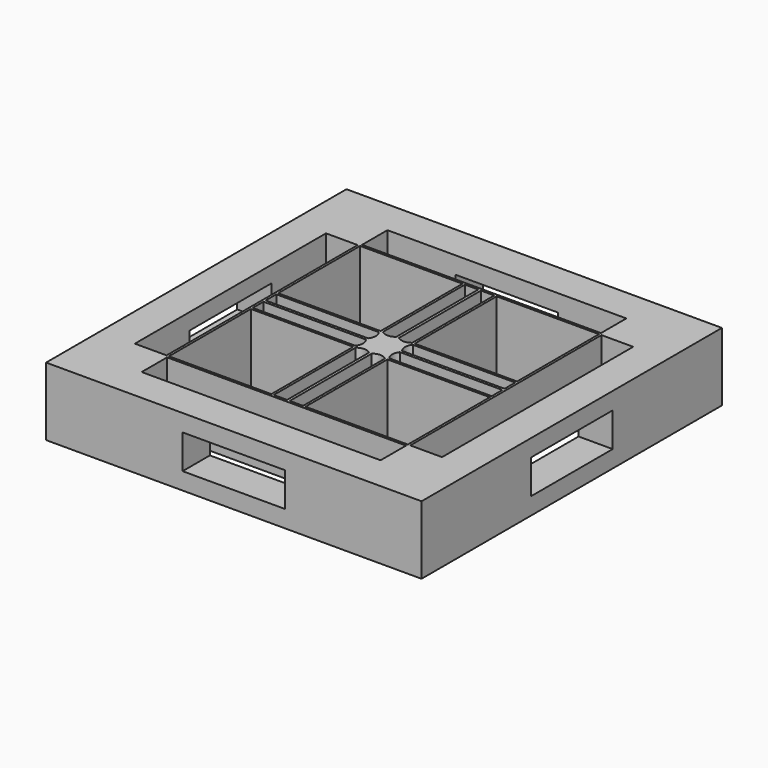
from build123d import *

# Parameters (mm, degrees)
F0_W      = 55
F0_H      = 55
F2_DEPTH  = 10
F1_W      = 35
F1_H      = 4
F1_W_2    = 4
F1_H_2    = 35
F1_W_3    = 15
F1_H_3    = 15
F3_DEPTH  = 25
F4_W      = 1.95
F4_H      = 15
F5_DEPTH  = 25
F6_W      = 1.95
F6_H      = 15
F7_DEPTH  = 25
F8_W      = 15
F8_H      = 1.95
F8_W_2    = 1.95
F8_H_2    = 15
F9_DEPTH  = 25
F10_W     = 35
F10_H     = 4.65
F10_W_2   = 4.65
F10_H_2   = 35
F11_DEPTH = 25
F13_DEPTH = 25
F14_W     = 15.000002
F14_H     = 5
F15_DEPTH = 6
F16_W     = 15
F16_H     = 5
F17_DEPTH = 6
F18_W     = 15
F18_H     = 5
F19_DEPTH = 6
F20_W     = 15
F20_H     = 5
F21_DEPTH = 6


with BuildPart() as f2:
    # F0 (on Top) → F2 (new body)
    with BuildSketch(Plane.XY):
        with Locations((-46.218942, 9.861976)):
            Rectangle(F0_W, F0_H)
    extrude(amount=F2_DEPTH)

    # F1 (on face) → F3 (cut)
    with BuildSketch(Plane.XY):
        with Locations((-46.218942, 30.361976)):
            Rectangle(F1_W, F1_H)
        with Locations((-66.718942, 9.861976)):
            Rectangle(F1_W_2, F1_H_2)
        with Locations((-25.718942, 9.861976)):
            Rectangle(F1_W_2, F1_H_2)
        with Locations((-46.218942, -10.638024)):
            Rectangle(F1_W, F1_H)
        with Locations((-56.218942, 19.861976)):
            Rectangle(F1_W_3, F1_H_3)
        with Locations((-36.218942, 19.861976)):
            Rectangle(F1_W_3, F1_H_3)
        with Locations((-56.218942, -0.138024)):
            Rectangle(F1_W_3, F1_H_3)
        with Locations((-36.218942, -0.138024)):
            Rectangle(F1_W_3, F1_H_3)
    extrude(amount=F3_DEPTH, mode=Mode.SUBTRACT)

    # F4 (on face) → F5 (cut)
    with BuildSketch(Plane.XY.offset(10)):
        with Locations((-47.393942, 19.861976)):
            Rectangle(F4_W, F4_H)
    extrude(amount=-F5_DEPTH, mode=Mode.SUBTRACT)

    # F6 (on face) → F7 (cut)
    with BuildSketch(Plane.XY.offset(10)):
        with Locations((-45.043942, 19.861976)):
            Rectangle(F6_W, F6_H)
    extrude(amount=-F7_DEPTH, mode=Mode.SUBTRACT)

    # F8 (on face) → F9 (cut)
    with BuildSketch(Plane.XY.offset(10)):
        with Locations((-56.218942, 11.036976)):
            Rectangle(F8_W, F8_H)
        with Locations((-56.218942, 8.686976)):
            Rectangle(F8_W, F8_H)
        with Locations((-36.218942, 11.036976)):
            Rectangle(F8_W, F8_H)
        with Locations((-36.218942, 8.686976)):
            Rectangle(F8_W, F8_H)
        with Locations((-47.393942, -0.138024)):
            Rectangle(F8_W_2, F8_H_2)
        with Locations((-45.043942, -0.138024)):
            Rectangle(F8_W_2, F8_H_2)
    extrude(amount=-F9_DEPTH, mode=Mode.SUBTRACT)

    # F10 (on face) → F11 (cut)
    with BuildSketch(Plane.XY.offset(10)):
        with Locations((-46.218942, 30.036976)):
            Rectangle(F10_W, F10_H)
        with Locations((-26.043942, 9.861976)):
            Rectangle(F10_W_2, F10_H_2)
        with Locations((-46.218942, -10.313024)):
            Rectangle(F10_W, F10_H)
        with Locations((-66.393942, 9.861976)):
            Rectangle(F10_W_2, F10_H_2)
    extrude(amount=-F11_DEPTH, mode=Mode.SUBTRACT)

    # F12 (on face) → F13 (cut)
    with BuildSketch(Plane.XY.offset(10)):
        with BuildLine():
            Line((-46.418942, 12.361976), (-48.368942, 12.361976))
            ThreePointArc((-48.368942, 12.361976), (-47.393942, 12.001878), (-46.418942, 12.361976))
        make_face()
        with BuildLine():
            Line((-44.068942, 12.361976), (-46.018942, 12.361976))
            ThreePointArc((-46.018942, 12.361976), (-45.043942, 12.001878), (-44.068942, 12.361976))
        make_face()
        with BuildLine():
            Line((-43.718942, 10.061976), (-43.718942, 12.011976))
            ThreePointArc((-43.718942, 12.011976), (-44.079041, 11.036976), (-43.718942, 10.061976))
        make_face()
        with BuildLine():
            Line((-43.718942, 7.711976), (-43.718942, 9.661976))
            ThreePointArc((-43.718942, 9.661976), (-44.079041, 8.686976), (-43.718942, 7.711976))
        make_face()
        with BuildLine():
            Line((-46.018942, 7.361976), (-44.068942, 7.361976))
            ThreePointArc((-44.068942, 7.361976), (-45.043942, 7.722075), (-46.018942, 7.361976))
        make_face()
        with BuildLine():
            Line((-48.368942, 7.361976), (-46.418942, 7.361976))
            ThreePointArc((-46.418942, 7.361976), (-47.393942, 7.722075), (-48.368942, 7.361976))
        make_face()
        with BuildLine():
            Line((-48.718942, 9.661976), (-48.718942, 7.711976))
            ThreePointArc((-48.718942, 7.711976), (-48.358843, 8.686976), (-48.718942, 9.661976))
        make_face()
        with BuildLine():
            Line((-48.718942, 12.011976), (-48.718942, 10.061976))
            ThreePointArc((-48.718942, 10.061976), (-48.358843, 11.036976), (-48.718942, 12.011976))
        make_face()
    extrude(amount=-F13_DEPTH, mode=Mode.SUBTRACT)

    # F14 (on face) → F15 (cut)
    with BuildSketch(Plane.XZ.offset(17.638024)):
        with Locations((-46.218943, 5)):
            Rectangle(F14_W, F14_H)
    extrude(amount=-F15_DEPTH, mode=Mode.SUBTRACT)

    # F16 (on face) → F17 (cut)
    with BuildSketch(Plane.YZ.offset(-18.718942)):
        with Locations((9.861976, 5)):
            Rectangle(F16_W, F16_H)
    extrude(amount=-F17_DEPTH, mode=Mode.SUBTRACT)

    # F18 (on face) → F19 (cut)
    with BuildSketch(Plane(origin=(0, 37.361976, 0), x_dir=(-1, 0, 0), z_dir=(0, 1, 0))):
        with Locations((46.218942, 5)):
            Rectangle(F18_W, F18_H)
    extrude(amount=-F19_DEPTH, mode=Mode.SUBTRACT)

    # F20 (on face) → F21 (cut)
    with BuildSketch(Plane(origin=(-73.718942, 0, 0), x_dir=(0, -1, 0), z_dir=(-1, 0, 0))):
        with Locations((-9.861976, 5.117217)):
            Rectangle(F20_W, F20_H)
    extrude(amount=-F21_DEPTH, mode=Mode.SUBTRACT)


solid = f2.part
